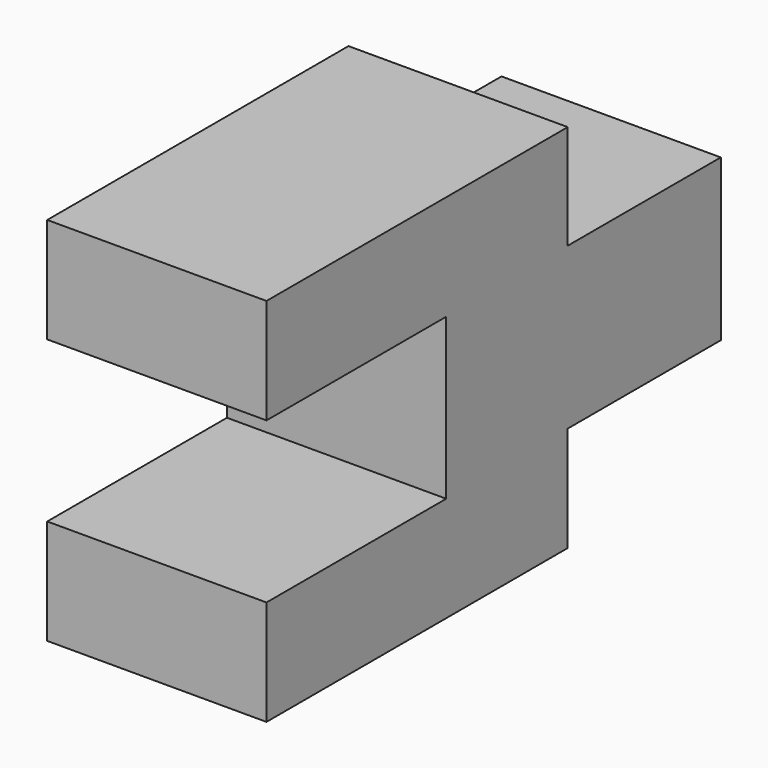
from build123d import *

# Parameters (mm, degrees)
F0_W     = 39.753504
F0_H     = 18.650552
F1_DEPTH = 25.4
F2_W     = 26.020167
F2_H     = 12.181974
F2_W_2   = 17.596183
F3_DEPTH = 25.4


with BuildPart() as f1:
    # F0 (on Right) → F1 (new body)
    with BuildSketch(Plane.YZ):
        with Locations((19.876752, 9.325276)):
            Rectangle(F0_W, F0_H)
    extrude(amount=F1_DEPTH)

    # F2 (on Right) → F3 (join)
    with BuildSketch(Plane.YZ):
        with Locations((-13.010083, -6.090987)):
            Rectangle(F2_W, F2_H)
        with Locations((8.798091, -6.090987)):
            Rectangle(F2_W_2, F2_H)
        with Locations((-13.010083, 24.656872)):
            Rectangle(F2_W, F2_H)
        with Locations((8.798091, 24.656872)):
            Rectangle(F2_W_2, F2_H)
    extrude(amount=F3_DEPTH)


solid = f1.part
